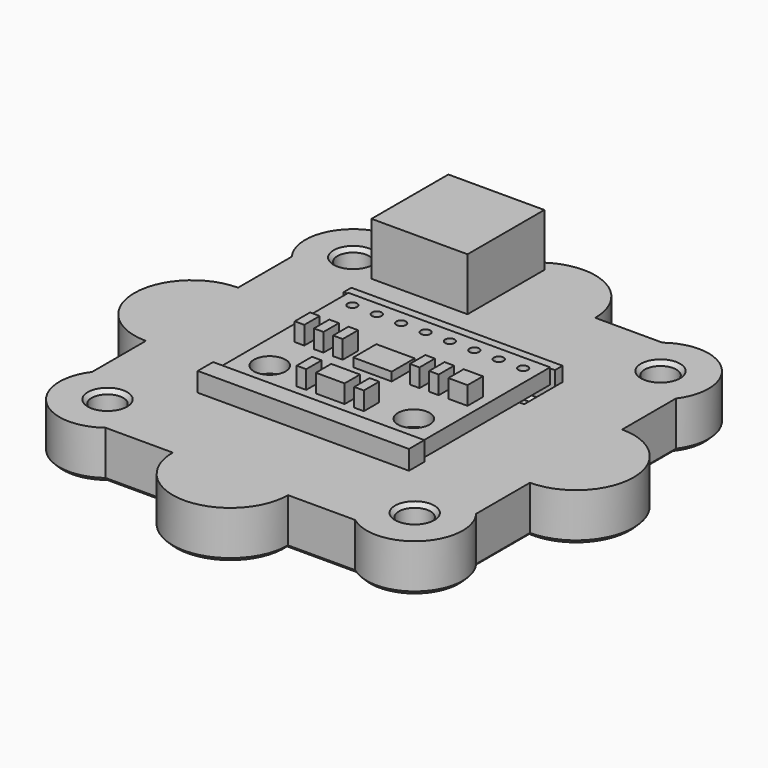
from build123d import *

# Parameters (mm, degrees)
BOX016_W          = 10
BOX016_H          = 10
BOX016_DEPTH      = 10
BOX001_W          = 4
BOX001_H          = 3
BOX001_DEPTH      = 2.5
BOX002_W          = 3
BOX002_H          = 2
BOX002_DEPTH      = 3.5
BOX003_W          = 1
BOX003_H          = 2
BOX003_DEPTH      = 3.5
BOX004_W          = 1
BOX004_H          = 2
BOX004_DEPTH      = 3.5
BOX005_W          = 1
BOX005_H          = 2
BOX005_DEPTH      = 3.5
BOX006_W          = 1
BOX006_H          = 2
BOX006_DEPTH      = 3.5
BOX007_W          = 1
BOX007_H          = 2
BOX007_DEPTH      = 3.5
BOX008_W          = 1
BOX008_H          = 2
BOX008_DEPTH      = 3.5
BOX009_W          = 1
BOX009_H          = 2
BOX009_DEPTH      = 3.5
BOX010_W          = 2
BOX010_H          = 2
BOX010_DEPTH      = 3.5
CYLINDER007_R     = 0.5
CYLINDER007_DEPTH = 10
CYLINDER008_R     = 0.5
CYLINDER008_DEPTH = 10
CYLINDER006_R     = 0.5
CYLINDER006_DEPTH = 10
CYLINDER005_R     = 0.5
CYLINDER005_DEPTH = 10
CYLINDER004_R     = 0.5
CYLINDER004_DEPTH = 10
CYLINDER003_R     = 0.5
CYLINDER003_DEPTH = 10
CYLINDER002_R     = 0.5
CYLINDER002_DEPTH = 10
CYLINDER009_R     = 0.5
CYLINDER009_DEPTH = 10
CYLINDER001_R     = 1.65
CYLINDER001_DEPTH = 10
CYLINDER_R        = 1.65
CYLINDER_DEPTH    = 10
BOX_W             = 21
BOX_H             = 17
BOX_DEPTH         = 1.6
BOX018_W          = 6
BOX018_H          = 10
BOX018_DEPTH      = 10
BOX017_W          = 3.3
BOX017_H          = 10
BOX017_DEPTH      = 10
CYLINDER014_R     = 1.65
CYLINDER014_DEPTH = 10
CYLINDER011_R     = 3
CYLINDER011_DEPTH = 10
CYLINDER012_R     = 1.4
CYLINDER012_DEPTH = 3
CYLINDER013_R     = 1.65
CYLINDER013_DEPTH = 10
BOX014_W          = 16
BOX014_H          = 12
BOX014_DEPTH      = 10
BOX013_W          = 22
BOX013_H          = 4
BOX013_DEPTH      = 5
CHAMFER_SIZE      = 0.4
BOX011_W          = 22
BOX011_H          = 28
BOX011_DEPTH      = 3
BOX012_W          = 22
BOX012_H          = 2
BOX012_DEPTH      = 5
BOX015_W          = 22
BOX015_H          = 1
BOX015_DEPTH      = 1.5
CHAMFER001_SIZE   = 1
CHAMFER002_SIZE   = 0.4
SKETCH_W          = 7
SKETCH_H          = 8
POCKET_DEPTH      = 4.501
POCKET_FACE11_W   = 20
POCKET_FACE11_H   = 22
POCKET_FACE11_R   = 1.65
PAD_DEPTH         = 2
SKETCH001_R       = 2
POCKET001_DEPTH   = 8.001
SKETCH002_R       = 1.65
SKETCH002_W       = 22
SKETCH002_H       = 20
PAD001_DEPTH      = 5
SKETCH003_R       = 6
PAD002_DEPTH      = 5
SKETCH004_R       = 3.05
POCKET002_DEPTH   = 3.5
CHAMFER003_SIZE   = 0.4


with BuildPart() as cube016:
    # Box016 → Box016 (new body)
    with BuildSketch(Plane(origin=(-12.5, 22.5, -4.5), x_dir=(1, 0, 0), z_dir=(0, 0, 1))):
        with Locations((5, 5)):
            Rectangle(BOX016_W, BOX016_H)
    extrude(amount=BOX016_DEPTH)


with BuildPart() as cube001:
    # Box001 → Box001 (new body)
    with BuildSketch(Plane(origin=(-2, 7, 0), x_dir=(1, 0, 0), z_dir=(0, 0, 1))):
        with Locations((2, 1.5)):
            Rectangle(BOX001_W, BOX001_H)
    extrude(amount=BOX001_DEPTH)


with BuildPart() as cube002:
    # Box002 → Box002 (new body)
    with BuildSketch(Plane(origin=(-1.5, 1.5, 0), x_dir=(1, 0, 0), z_dir=(0, 0, 1))):
        with Locations((1.5, 1)):
            Rectangle(BOX002_W, BOX002_H)
    extrude(amount=BOX002_DEPTH)


with BuildPart() as cube003:
    # Box003 → Box003 (new body)
    with BuildSketch(Plane(origin=(-3.5, 1.5, 0), x_dir=(1, 0, 0), z_dir=(0, 0, 1))):
        with Locations((0.5, 1)):
            Rectangle(BOX003_W, BOX003_H)
    extrude(amount=BOX003_DEPTH)


with BuildPart() as cube004:
    # Box004 → Box004 (new body)
    with BuildSketch(Plane(origin=(2.5, 1.5, 0), x_dir=(1, 0, 0), z_dir=(0, 0, 1))):
        with Locations((0.5, 1)):
            Rectangle(BOX004_W, BOX004_H)
    extrude(amount=BOX004_DEPTH)


with BuildPart() as cube005:
    # Box005 → Box005 (new body)
    with BuildSketch(Plane(origin=(-4.5, 7.5, 0), x_dir=(1, 0, 0), z_dir=(0, 0, 1))):
        with Locations((0.5, 1)):
            Rectangle(BOX005_W, BOX005_H)
    extrude(amount=BOX005_DEPTH)


with BuildPart() as cube006:
    # Box006 → Box006 (new body)
    with BuildSketch(Plane(origin=(-6.5, 7.5, 0), x_dir=(1, 0, 0), z_dir=(0, 0, 1))):
        with Locations((0.5, 1)):
            Rectangle(BOX006_W, BOX006_H)
    extrude(amount=BOX006_DEPTH)


with BuildPart() as cube007:
    # Box007 → Box007 (new body)
    with BuildSketch(Plane(origin=(-8.5, 7.5, 0), x_dir=(1, 0, 0), z_dir=(0, 0, 1))):
        with Locations((0.5, 1)):
            Rectangle(BOX007_W, BOX007_H)
    extrude(amount=BOX007_DEPTH)


with BuildPart() as cube008:
    # Box008 → Box008 (new body)
    with BuildSketch(Plane(origin=(3.5, 7.5, 0), x_dir=(1, 0, 0), z_dir=(0, 0, 1))):
        with Locations((0.5, 1)):
            Rectangle(BOX008_W, BOX008_H)
    extrude(amount=BOX008_DEPTH)


with BuildPart() as cube009:
    # Box009 → Box009 (new body)
    with BuildSketch(Plane(origin=(5.5, 7.5, 0), x_dir=(1, 0, 0), z_dir=(0, 0, 1))):
        with Locations((0.5, 1)):
            Rectangle(BOX009_W, BOX009_H)
    extrude(amount=BOX009_DEPTH)


with BuildPart() as cube010:
    # Box010 → Box010 (new body)
    with BuildSketch(Plane(origin=(7.5, 7.5, 0), x_dir=(1, 0, 0), z_dir=(0, 0, 1))):
        with Locations((1, 1)):
            Rectangle(BOX010_W, BOX010_H)
    extrude(amount=BOX010_DEPTH)


with BuildPart() as cylinder007:
    # Cylinder007 → Cylinder007 (new body)
    with BuildSketch(Plane(origin=(6.35, 15, 0), x_dir=(1, 0, 0), z_dir=(0, 0, 1))):
        Circle(CYLINDER007_R)
    extrude(amount=CYLINDER007_DEPTH)


with BuildPart() as cylinder008:
    # Cylinder008 → Cylinder008 (new body)
    with BuildSketch(Plane(origin=(8.89, 15, 0), x_dir=(1, 0, 0), z_dir=(0, 0, 1))):
        Circle(CYLINDER008_R)
    extrude(amount=CYLINDER008_DEPTH)


with BuildPart() as cylinder006:
    # Cylinder006 → Cylinder006 (new body)
    with BuildSketch(Plane(origin=(-6.35, 15, 0), x_dir=(1, 0, 0), z_dir=(0, 0, 1))):
        Circle(CYLINDER006_R)
    extrude(amount=CYLINDER006_DEPTH)


with BuildPart() as cylinder005:
    # Cylinder005 → Cylinder005 (new body)
    with BuildSketch(Plane(origin=(-3.81, 15, 0), x_dir=(1, 0, 0), z_dir=(0, 0, 1))):
        Circle(CYLINDER005_R)
    extrude(amount=CYLINDER005_DEPTH)


with BuildPart() as cylinder004:
    # Cylinder004 → Cylinder004 (new body)
    with BuildSketch(Plane(origin=(3.81, 15, 0), x_dir=(1, 0, 0), z_dir=(0, 0, 1))):
        Circle(CYLINDER004_R)
    extrude(amount=CYLINDER004_DEPTH)


with BuildPart() as cylinder003:
    # Cylinder003 → Cylinder003 (new body)
    with BuildSketch(Plane(origin=(1.27, 15, 0), x_dir=(1, 0, 0), z_dir=(0, 0, 1))):
        Circle(CYLINDER003_R)
    extrude(amount=CYLINDER003_DEPTH)


with BuildPart() as cylinder002:
    # Cylinder002 → Cylinder002 (new body)
    with BuildSketch(Plane(origin=(-1.27, 15, 0), x_dir=(1, 0, 0), z_dir=(0, 0, 1))):
        Circle(CYLINDER002_R)
    extrude(amount=CYLINDER002_DEPTH)


with BuildPart() as fusion001:
    # Cylinder009 → Cylinder009 (new body)
    with BuildSketch(Plane(origin=(-8.89, 15, 0), x_dir=(1, 0, 0), z_dir=(0, 0, 1))):
        Circle(CYLINDER009_R)
    extrude(amount=CYLINDER009_DEPTH)

    # Fusion001: union Cylinder007, Cylinder008, Cylinder006, Cylinder005, Cylinder004, Cylinder003, Cylinder002
    add(cylinder007.part)
    add(cylinder008.part)
    add(cylinder006.part)
    add(cylinder005.part)
    add(cylinder004.part)
    add(cylinder003.part)
    add(cylinder002.part)


with BuildPart() as fusion001_1:
    # Fusion001 placement: moved
    add(fusion001.part.moved(Location((0, 0.5, 0))))


with BuildPart() as cylinder001:
    # Cylinder001 → Cylinder001 (new body)
    with BuildSketch(Plane(origin=(7.5, 2.5, 0), x_dir=(1, 0, 0), z_dir=(0, 0, 1))):
        Circle(CYLINDER001_R)
    extrude(amount=CYLINDER001_DEPTH)


with BuildPart() as fusion:
    # Cylinder → Cylinder (new body)
    with BuildSketch(Plane(origin=(-7.5, 2.5, 0), x_dir=(1, 0, 0), z_dir=(0, 0, 1))):
        Circle(CYLINDER_R)
    extrude(amount=CYLINDER_DEPTH)

    # Fusion: union Cylinder001
    add(cylinder001.part)


with BuildPart() as fusion_1:
    # Fusion placement: moved
    add(fusion.part.moved(Location((0, 0.5, 0))))


with BuildPart() as obj1:
    # Box → Box (new body)
    with BuildSketch(Plane(origin=(-10.5, 0, 0), x_dir=(1, 0, 0), z_dir=(0, 0, 1))):
        with Locations((10.5, 8.5)):
            Rectangle(BOX_W, BOX_H)
    extrude(amount=BOX_DEPTH)

    # Cut: cut Fusion
    add(fusion_1.part, mode=Mode.SUBTRACT)

    # Cut008: cut Fusion001
    add(fusion001_1.part, mode=Mode.SUBTRACT)

    # Fusion002007: union Cube001, Cube002, Cube003, Cube004, Cube005, Cube006, Cube007, Cube008, Cube009, Cube010
    add(cube001.part)
    add(cube002.part)
    add(cube003.part)
    add(cube004.part)
    add(cube005.part)
    add(cube006.part)
    add(cube007.part)
    add(cube008.part)
    add(cube009.part)
    add(cube010.part)


with BuildPart() as cube018:
    # Box018 → Box018 (new body)
    with BuildSketch(Plane(origin=(-10.5, 22.5, -1.5), x_dir=(1, 0, 0), z_dir=(0, 0, 1))):
        with Locations((3, 5)):
            Rectangle(BOX018_W, BOX018_H)
    extrude(amount=BOX018_DEPTH)


with BuildPart() as cube017:
    # Box017 → Box017 (new body)
    with BuildSketch(Plane(origin=(-9.15, 22.5, -11.5), x_dir=(1, 0, 0), z_dir=(0, 0, 1))):
        with Locations((1.65, 5)):
            Rectangle(BOX017_W, BOX017_H)
    extrude(amount=BOX017_DEPTH)


with BuildPart() as cylinder014:
    # Cylinder014 → Cylinder014 (new body)
    with BuildSketch(Plane(origin=(-7.5, 22.5, -6.5), x_dir=(1, 0, 0), z_dir=(0, 0, 1))):
        Circle(CYLINDER014_R)
    extrude(amount=CYLINDER014_DEPTH)


with BuildPart() as cylinder011:
    # Cylinder011 → Cylinder011 (new body)
    with BuildSketch(Plane(origin=(-7.5, 22.5, -1.5), x_dir=(1, 0, 0), z_dir=(0, 0, 1))):
        Circle(CYLINDER011_R)
    extrude(amount=CYLINDER011_DEPTH)


with BuildPart() as cylinder012:
    # Cylinder012 → Cylinder012 (new body)
    with BuildSketch(Plane(origin=(7.5, 3, 0), x_dir=(1, 0, 0), z_dir=(0, 0, 1))):
        Circle(CYLINDER012_R)
    extrude(amount=CYLINDER012_DEPTH)


with BuildPart() as cylinder013:
    # Cylinder013 → Cylinder013 (new body)
    with BuildSketch(Plane(origin=(-7.5, 3, -3.5), x_dir=(1, 0, 0), z_dir=(0, 0, 1))):
        Circle(CYLINDER013_R)
    extrude(amount=CYLINDER013_DEPTH)


with BuildPart() as cube014:
    # Box014 → Box014 (new body)
    with BuildSketch(Plane(origin=(-4, 18, -4.5), x_dir=(1, 0, 0), z_dir=(0, 0, 1))):
        with Locations((8, 6)):
            Rectangle(BOX014_W, BOX014_H)
    extrude(amount=BOX014_DEPTH)


with BuildPart() as chamfer_body:
    # Box013 → Box013 (new body)
    with BuildSketch(Plane(origin=(-11, 13, -2), x_dir=(1, 0, 0), z_dir=(0, 0, 1))):
        with Locations((11, 2)):
            Rectangle(BOX013_W, BOX013_H)
    extrude(amount=BOX013_DEPTH)

    # Chamfer
    chamfer_edges = [chamfer_body.edges().sort_by_distance(p)[0] for p in [
        (0, 13, -2),
        (0, 17, -2),
    ]]
    chamfer(chamfer_edges, length=CHAMFER_SIZE)


with BuildPart() as cut011:
    # Box011 → Box011 (new body)
    with BuildSketch(Plane(origin=(-11, -2, -3), x_dir=(1, 0, 0), z_dir=(0, 0, 1))):
        with Locations((11, 14)):
            Rectangle(BOX011_W, BOX011_H)
    extrude(amount=BOX011_DEPTH)

    # Cut002: cut Chamfer body
    add(chamfer_body.part, mode=Mode.SUBTRACT)

    # Cut003: cut Cube014
    add(cube014.part, mode=Mode.SUBTRACT)

    # Cut009: cut Cylinder013
    add(cylinder013.part, mode=Mode.SUBTRACT)

    # Fusion002008: union Cylinder012
    add(cylinder012.part)

    # Cut010: cut Cylinder011
    add(cylinder011.part, mode=Mode.SUBTRACT)

    # Cut011: cut Cylinder014
    add(cylinder014.part, mode=Mode.SUBTRACT)


with BuildPart() as cube012:
    # Box012 → Box012 (new body)
    with BuildSketch(Plane(origin=(-11, -2, -3), x_dir=(1, 0, 0), z_dir=(0, 0, 1))):
        with Locations((11, 1)):
            Rectangle(BOX012_W, BOX012_H)
    extrude(amount=BOX012_DEPTH)


with BuildPart() as body:
    # Box015 → Box015 (new body)
    with BuildSketch(Plane(origin=(-11, 17, 0), x_dir=(1, 0, 0), z_dir=(0, 0, 1))):
        with Locations((11, 0.5)):
            Rectangle(BOX015_W, BOX015_H)
    extrude(amount=BOX015_DEPTH)

    # Fusion002009: union Cut011, Cube012
    add(cut011.part)
    add(cube012.part)

    # Chamfer001
    chamfer001_edges = [body.edges().sort_by_distance(p)[0] for p in [
        (-7.5, 18, 0),
    ]]
    chamfer(chamfer001_edges, length=CHAMFER001_SIZE)

    # Cut012: cut Cube017
    add(cube017.part, mode=Mode.SUBTRACT)

    # Cut013: cut Cube018
    add(cube018.part, mode=Mode.SUBTRACT)

    # Chamfer002
    chamfer002_edges = [body.edges().sort_by_distance(p)[0] for p in [
        (-9.15, 26, -2.25),
        (-9.825, 26, -1.5),
        (-5.85, 26, -2.25),
        (-5.175, 26, -1.5),
    ]]
    chamfer(chamfer002_edges, length=CHAMFER002_SIZE)

    # Sketch (on Face39 of BaseFeature) → Pocket (cut, through all)
    with BuildSketch(Plane.XY.offset(1.5)):
        with Locations((-7.5, 22)):
            Rectangle(SKETCH_W, SKETCH_H)
    extrude(amount=-POCKET_DEPTH, mode=Mode.SUBTRACT)

    # Pocket Face11 → Pad (add)
    with BuildSketch(Plane(origin=(0.14868, 8.09912, -3), x_dir=(0, -1, 0), z_dir=(0, 0, -1))):
        with Locations((0.09912, 0.14868)):
            Rectangle(POCKET_FACE11_W, POCKET_FACE11_H)
        with Locations((5.09912, 7.64868)):
            Circle(POCKET_FACE11_R, mode=Mode.SUBTRACT)
    extrude(amount=PAD_DEPTH)

    # Sketch001 (on Face13 of Pad) → Pocket001 (cut, through all)
    with BuildSketch(Plane.XY.offset(3)):
        with Locations((-7.5, 3)):
            Circle(SKETCH001_R)
        with Locations((7.5, 3)):
            Circle(SKETCH001_R)
    extrude(amount=-POCKET001_DEPTH, mode=Mode.SUBTRACT)

    # Sketch002 (on Face1 of Pocket001) → Pad001 (join)
    with BuildSketch(Plane(origin=(0, 0, -5), x_dir=(1, 0, 0), z_dir=(0, 0, -1))):
        with BuildLine():
            ThreePointArc((-13, 11.5), (-19.535534, 11.035534), (-20, 4.5))
            Line((-20, -21.5), (-20, 4.5))
            ThreePointArc((-20, -21.5), (-19.535534, -28.035534), (-13, -28.5))
            Line((-13, -28.5), (13, -28.5))
            ThreePointArc((13, -28.5), (19.535534, -28.035534), (20, -21.5))
            Line((20, 4.5), (20, -21.5))
            ThreePointArc((20, 4.5), (19.535534, 11.035534), (13, 11.5))
            Line((-13, 11.5), (13, 11.5))
        make_face()
        with Locations((-16, 7.5)):
            Circle(SKETCH002_R, mode=Mode.SUBTRACT)
        with Locations((-16, -24.5)):
            Circle(SKETCH002_R, mode=Mode.SUBTRACT)
        with Locations((16, -24.5)):
            Circle(SKETCH002_R, mode=Mode.SUBTRACT)
        with Locations((16, 7.5)):
            Circle(SKETCH002_R, mode=Mode.SUBTRACT)
        with Locations((0, -8)):
            Rectangle(SKETCH002_W, SKETCH002_H, mode=Mode.SUBTRACT)
    extrude(amount=-PAD001_DEPTH)

    # Sketch003 (on Face9 of Pad001) → Pad002 (join)
    with BuildSketch(Plane(origin=(0, 0, -5), x_dir=(1, 0, 0), z_dir=(0, 0, -1))):
        with Locations((0, 11.5)):
            Circle(SKETCH003_R)
        with Locations((0, -28.5)):
            Circle(SKETCH003_R)
        with Locations((-20, -8.5)):
            Circle(SKETCH003_R)
        with Locations((20, -8.5)):
            Circle(SKETCH003_R)
    extrude(amount=-PAD002_DEPTH)

    # Sketch004 (on Face16 of Pad002) → Pocket002 (cut)
    with BuildSketch(Plane(origin=(0, 0, -5), x_dir=(1, 0, 0), z_dir=(0, 0, -1))):
        with Locations((-20, -8.5)):
            Circle(SKETCH004_R)
        with Locations((0, -28.5)):
            Circle(SKETCH004_R)
        with Locations((20, -8.5)):
            Circle(SKETCH004_R)
        with Locations((0, 11.5)):
            Circle(SKETCH004_R)
    extrude(amount=-POCKET002_DEPTH, mode=Mode.SUBTRACT)

    # Chamfer003
    chamfer003_edges = [body.edges().sort_by_distance(p)[0] for p in [
        (20, -1, -5),
        (19.535534, -11.035534, -5),
        (24.242641, 4.257359, -5),
        (9.5, -11.5, -5),
        (24.242641, 12.742641, -5),
        (0, -17.5, -5),
        (20, 18, -5),
        (-9.5, -11.5, -5),
        (19.535534, 28.035534, -5),
        (-19.535534, -11.035534, -5),
        (9.5, 28.5, -5),
        (-20, -1, -5),
        (0, 34.5, -5),
        (-26, 8.5, -5),
        (-9.5, 28.5, -5),
        (-20, 18, -5),
        (-19.535534, 28.035534, -5),
        (14.35, -7.5, -5),
        (5.5, 3, -5),
        (-3.05, -11.5, -5),
        (-17.65, -7.5, -5),
        (-9.5, 3, -5),
        (16.95, 8.5, -5),
        (14.35, 24.5, -5),
        (-23.05, 8.5, -5),
        (-3.05, 28.5, -5),
        (-17.65, 24.5, -5),
        (14.35, -7.5, 0),
        (5.5, 3, 0),
        (-9.5, 3, 0),
        (-17.65, -7.5, 0),
        (-17.65, 24.5, 0),
        (14.35, 24.5, 0),
    ]]
    chamfer(chamfer003_edges, length=CHAMFER003_SIZE)


solid = Compound([cube016.part, obj1.part, body.part])
